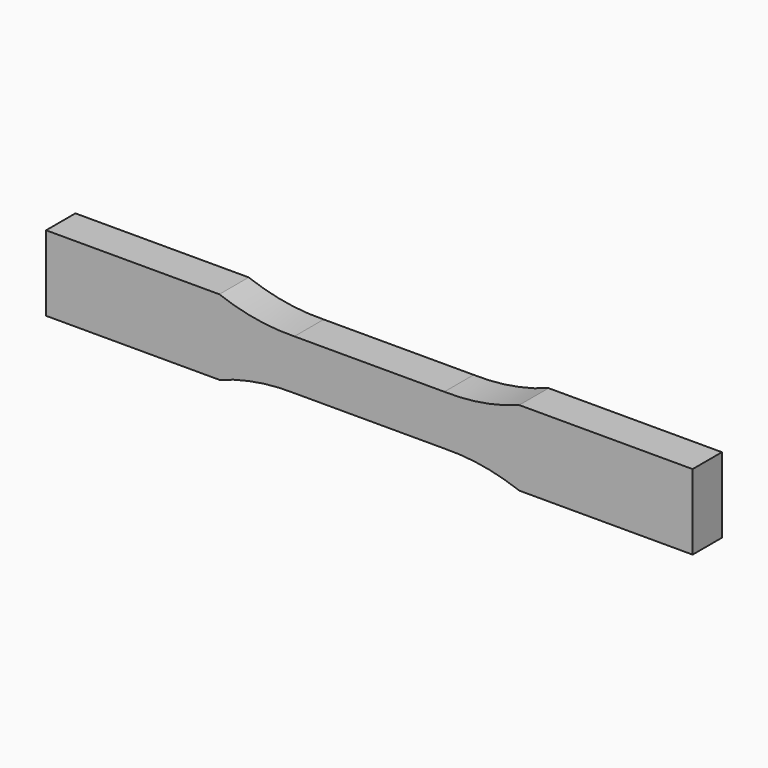
from build123d import *

# Parameters (mm, degrees)
F1_DEPTH = 13.97


with BuildPart() as f1:
    # F0 (on Front) → F1 (new body)
    with BuildSketch(Plane.XZ):
        with BuildLine():
            Line((28.575, 9.525), (0, 9.525))
            Line((0, 9.525), (-28.575, 9.525))
            ThreePointArc((-28.575, 9.525), (-43.094035, 10.567071), (-57.15, 14.351))
            Line((-57.15, 14.351), (-123.19, 14.351))
            Line((-123.19, 14.351), (-123.19, -14.351))
            Line((-123.19, -14.351), (-57.15, -14.351))
            ThreePointArc((-57.15, -14.351), (-43.094035, -10.567071), (-28.575, -9.525))
            Line((-28.575, -9.525), (0, -9.525))
            Line((0, -9.525), (28.575, -9.525))
            ThreePointArc((28.575, -9.525), (43.094035, -10.567071), (57.15, -14.351))
            Line((57.15, -14.351), (123.19, -14.351))
            Line((123.19, -14.351), (123.19, 14.351))
            Line((123.19, 14.351), (57.15, 14.351))
            ThreePointArc((57.15, 14.351), (43.094035, 10.567071), (28.575, 9.525))
        make_face()
    extrude(amount=F1_DEPTH)


solid = f1.part
